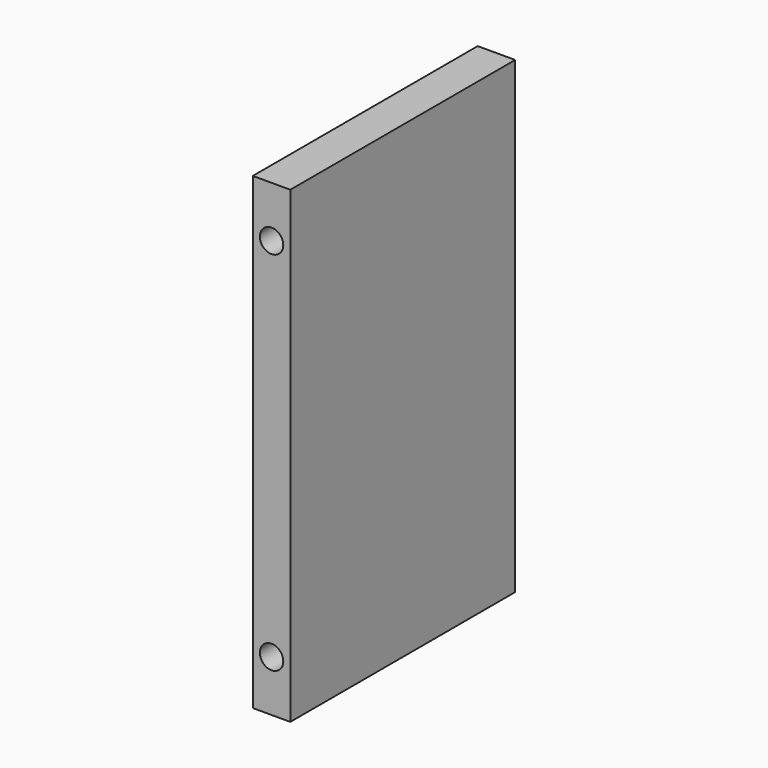
from build123d import *

# Parameters (mm, degrees)
F0_W     = 76.2
F0_H     = 127
F1_DEPTH = 10.16
F2_R     = 3.175
F3_DEPTH = 6.35
F4_DEPTH = 6.35
F5_R     = 3.175
F6_DEPTH = 6.35


with BuildPart() as f1:
    # F0 (on Right) → F1 (new body)
    with BuildSketch(Plane.YZ):
        with Locations((-2.434241, 4.128012)):
            Rectangle(F0_W, F0_H)
    extrude(amount=F1_DEPTH)

    # F2 (on face) → F3 (cut)
    with BuildSketch(Plane.XZ.offset(40.534241)):
        with Locations((5.08, -45.528988)):
            Circle(F2_R)
    extrude(amount=-F3_DEPTH, mode=Mode.SUBTRACT)

    # F2 (on face) → F4 (cut)
    with BuildSketch(Plane.XZ.offset(40.534241)):
        with Locations((5.08, 53.785012)):
            Circle(F2_R)
    extrude(amount=-F4_DEPTH, mode=Mode.SUBTRACT)

    # F5 (on face) → F6 (cut)
    with BuildSketch(Plane(origin=(0, 35.665759, 0), x_dir=(-1, 0, 0), z_dir=(0, 1, 0))):
        with Locations((-5.08, 53.804278)):
            Circle(F5_R)
        with Locations((-5.08, -45.528988)):
            Circle(F5_R)
    extrude(amount=-F6_DEPTH, mode=Mode.SUBTRACT)


solid = f1.part
